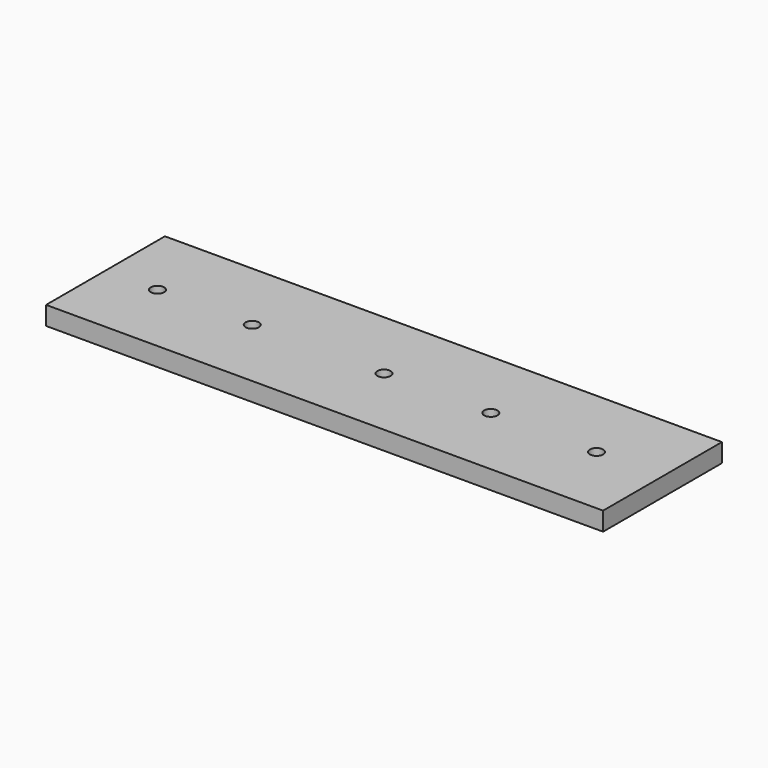
from build123d import *

# Parameters (mm, degrees)
F0_W     = 150
F0_H     = 40
F1_DEPTH = 2.5
F2_R     = 1.8
F3_DEPTH = 8


with BuildPart() as f1:
    # F0 (on Top) → F1 (new body, symmetric)
    with BuildSketch(Plane.XY):
        Rectangle(F0_W, F0_H)
    extrude(amount=F1_DEPTH, both=True)

    # F2 (on face) → F3 (cut)
    with BuildSketch(Plane.XY.offset(2.5)):
        with Locations((57.234262, 0)):
            Circle(F2_R)
        with Locations((28.762519, 0)):
            Circle(F2_R)
        Circle(F2_R)
        with Locations((-35.476741, 0)):
            Circle(F2_R)
        with Locations((-60.998922, 0)):
            Circle(F2_R)
    extrude(amount=-F3_DEPTH, mode=Mode.SUBTRACT)


solid = f1.part
